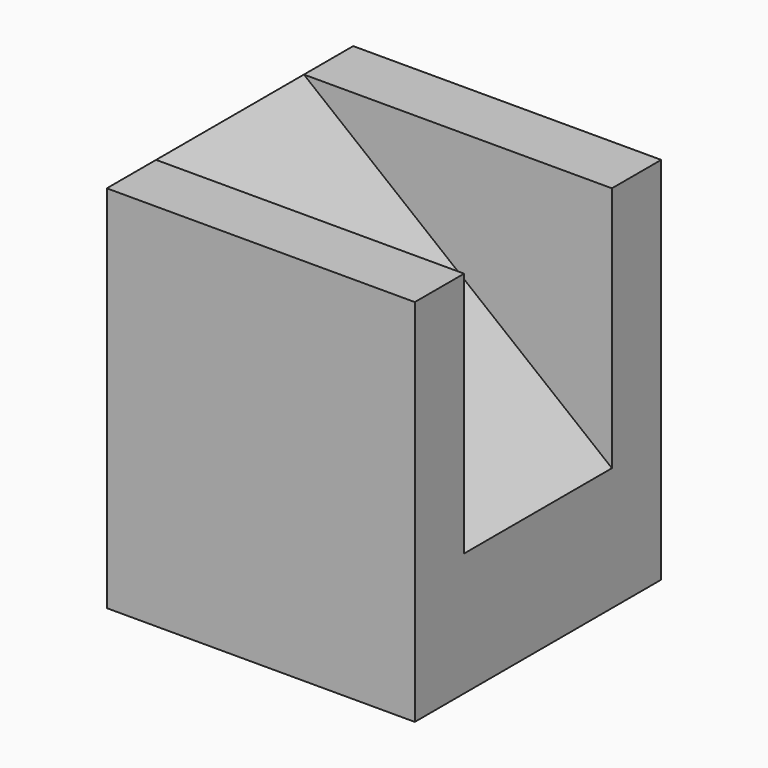
from build123d import *

# Parameters (mm, degrees)
F1_DEPTH = 50
F3_DEPTH = 40


with BuildPart() as f1:
    # F0 (on Right) → F1 (new body)
    with BuildSketch(Plane.YZ):
        Polygon((0, 60), (0, 0), (50, 0), (50, 60), (40, 60), (40, 20), (10, 20), (10, 60), align=None)
    extrude(amount=F1_DEPTH)

    # F2 (on Front) → F3 (join)
    with BuildSketch(Plane.XZ):
        Polygon((50, 20), (0, 60), (0, 20), align=None)
    extrude(amount=-F3_DEPTH)


solid = f1.part
